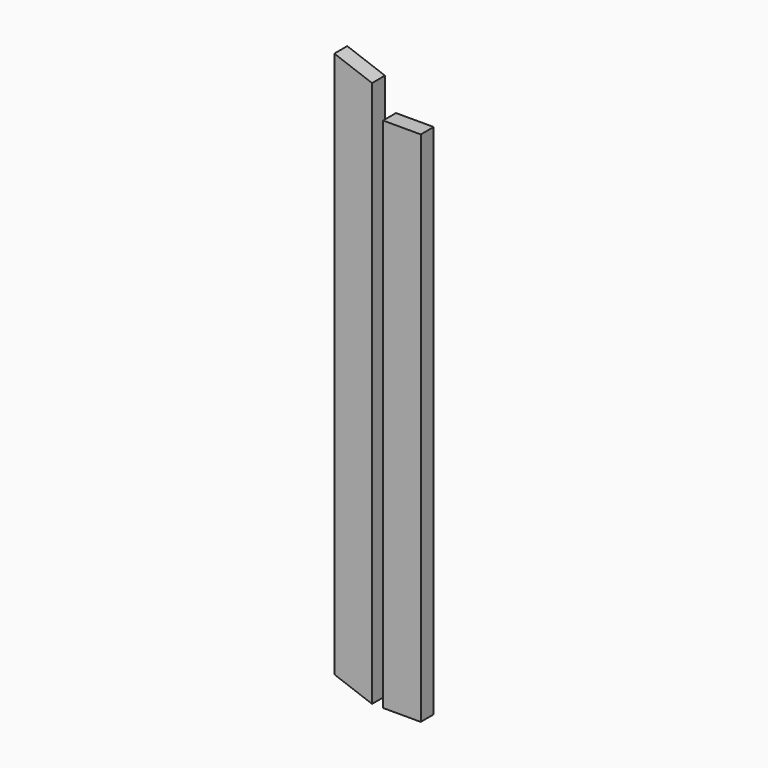
from build123d import *

# Parameters (mm, degrees)
F0_W     = 88.9
F0_H     = 1219.2
F1_DEPTH = 38.1
F2_W     = 88.9
F2_H     = 1320.8
F3_DEPTH = 38.1
F5_DEPTH = 38.101


with BuildPart() as f1:
    # F0 (on Front) → F1 (new body)
    with BuildSketch(Plane.XZ):
        with Locations((44.45, 609.6)):
            Rectangle(F0_W, F0_H)
    extrude(amount=F1_DEPTH)


with BuildPart() as f3:
    # F2 (on Front) → F3 (new body)
    with BuildSketch(Plane.XZ):
        with Locations((-70.420187, 660.4)):
            Rectangle(F2_W, F2_H)
    extrude(amount=F3_DEPTH)

    # F4 (on face) → F5 (cut, through all)
    with BuildSketch(Plane.XZ.offset(38.1)):
        Polygon((-114.870187, 0), (-25.970187, 0), (-114.870187, 32.356954), align=None)
        Polygon((-25.970187, 1320.8), (-114.870187, 1320.8), (-25.970187, 1288.443046), align=None)
    extrude(amount=-F5_DEPTH, mode=Mode.SUBTRACT)


solid = Compound([f1.part, f3.part])
